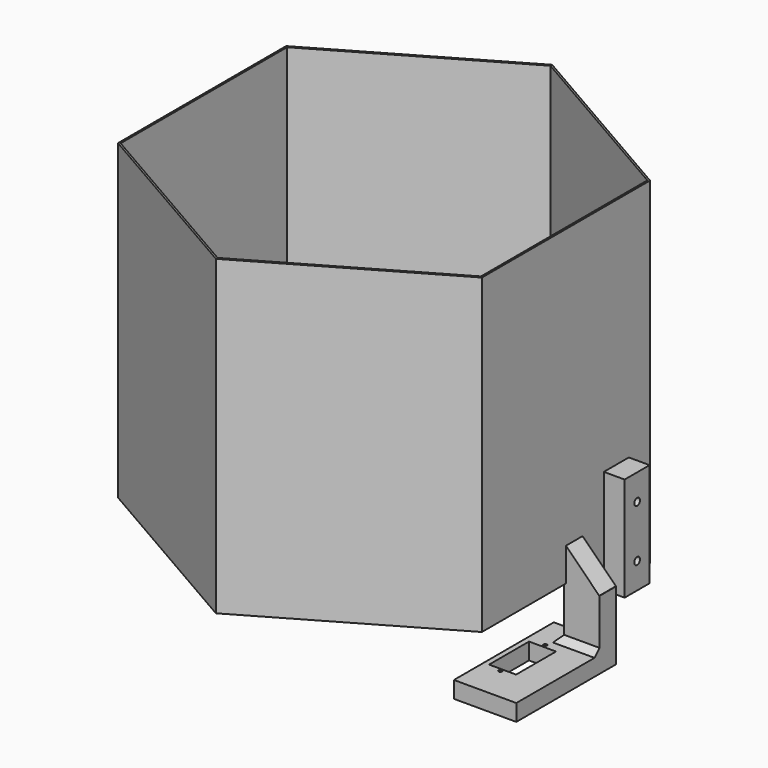
from build123d import *

# Parameters (mm, degrees)
PAD_DEPTH       = 150
SKETCH001_W     = 17
SKETCH001_H     = 10
PAD001_DEPTH    = 25
SKETCH002_W     = 30
SKETCH002_H     = 60
PAD002_DEPTH    = 8
SKETCH003_W     = 13
SKETCH003_H     = 24
POCKET_DEPTH    = 8.001
SKETCH004_R     = 0.8
HOLE_DEPTH      = 25
CHAMFER_SIZE    = 16
CHAMFER001_SIZE = 3
PAD003_DEPTH    = 12
SKETCH006_W     = 15
SKETCH006_H     = 50
PAD004_DEPTH    = 10
SKETCH007_R     = 1.7
HOLE001_DEPTH   = 6
HOLE001_TIPS_R  = 1.7
SKETCH008_W     = 15
SKETCH008_H     = 50
PAD005_DEPTH    = 10
SKETCH009_R     = 1.7
HOLE002_DEPTH   = 6
HOLE002_TIPS_R  = 1.7
SKETCH010_W     = 15
SKETCH010_H     = 50
PAD006_DEPTH    = 10
SKETCH011_R     = 1.7
HOLE003_DEPTH   = 6
HOLE003_TIPS_R  = 1.7


with BuildPart() as part:
    # Sketch → Pad (new body)
    with BuildSketch(Plane.XY):
        Polygon((87.4685657822, -50.5), (87.4685657822, 50.5), (0, 101), (-87.4685657822, 50.5), (-87.4685657822, -50.5), (0, -101), align=None)
        Polygon((86.6025403784, 50), (0, 100), (-86.6025403784, 50), (-86.6025403784, -50), (0, -100), (86.6025403784, -50), align=None, mode=Mode.SUBTRACT)
    extrude(amount=PAD_DEPTH)

    # Sketch001 (on Face13 of Pad) → Pad001 (join)
    with BuildSketch(Plane(origin=(0, 0, 0), x_dir=(1, 0, 0), z_dir=(0, 0, -1))):
        with Locations((95.1025403784, -5)):
            Rectangle(SKETCH001_W, SKETCH001_H)
    extrude(amount=PAD001_DEPTH)

    # Sketch002 (on Face20 of Pad001) → Pad002 (join)
    with BuildSketch(Plane(origin=(0, 0, -25), x_dir=(1, 0, 0), z_dir=(0, 0, -1))):
        with Locations((88.6025403784, 20)):
            Rectangle(SKETCH002_W, SKETCH002_H)
    extrude(amount=PAD002_DEPTH)

    # Sketch003 (on Face21 of Pad002) → Pocket (cut, through all)
    with BuildSketch(Plane.XY.offset(-25)):
        with Locations((82.6025403784, -20)):
            Rectangle(SKETCH003_W, SKETCH003_H)
    extrude(amount=-POCKET_DEPTH, mode=Mode.SUBTRACT)

    # Sketch004 (on Face21 of Pocket) → Hole (cut)
    with BuildSketch(Plane.XY.offset(-25)):
        with Locations((82.6025403784, -6.379604)):
            Circle(SKETCH004_R)
        with Locations((82.6025403784, -33.379604)):
            Circle(SKETCH004_R)
    extrude(amount=-HOLE_DEPTH, mode=Mode.SUBTRACT)

    # Chamfer
    chamfer_edges = [part.edges().sort_by_distance(p)[0] for p in [
        (87.468566, 5, 0),
    ]]
    chamfer(chamfer_edges, length=CHAMFER_SIZE)

    # Chamfer001
    chamfer001_edges = [part.edges().sort_by_distance(p)[0] for p in [
        (95.10254, 0, -25),
        (86.60254, 5, -25),
    ]]
    chamfer(chamfer001_edges, length=CHAMFER001_SIZE)

    # Sketch005 (on Face7 of Chamfer001) → Pad003 (join)
    with BuildSketch(Plane(origin=(0, 0, 0), x_dir=(1, 0, 0), z_dir=(0, 0, -1))):
        Polygon((86.6025403784, -10), (86.6025403784, -50), (0, -100), (-86.6025403784, -50), (-87.4685657822, -50.5), (0, -101), (87.4685657822, -50.5), (87.4685657822, -10), align=None)
    extrude(amount=PAD003_DEPTH)

    # Sketch006 (on Face23 of Pad003) → Pad004 (join)
    with BuildSketch(Plane.YZ.offset(87.4685657822)):
        with Locations((30.25, 13)):
            Rectangle(SKETCH006_W, SKETCH006_H)
    extrude(amount=PAD004_DEPTH)

    # Sketch007 (on Face47 of Pad004) → Hole001 (cut)
    with BuildSketch(Plane.YZ.offset(97.4685657822)):
        with Locations((30.25, 25.5)):
            Circle(SKETCH007_R)
        with Locations((30.25, 0.5)):
            Circle(SKETCH007_R)
    extrude(amount=-HOLE001_DEPTH, mode=Mode.SUBTRACT)

    # Hole001 tips → Hole001 tip 1 section 0
    with BuildSketch(Plane.YZ.offset(91.4685657822), mode=Mode.PRIVATE) as hole001_tip_1_s0:
        with Locations((30.25, 25.5)):
            Circle(HOLE001_TIPS_R)
    loft([hole001_tip_1_s0.sketch, Vertex(90.4471027299, 30.25, 25.5)], mode=Mode.SUBTRACT)

    # Hole001 tips → Hole001 tip 2 section 0
    with BuildSketch(Plane.YZ.offset(91.4685657822), mode=Mode.PRIVATE) as hole001_tip_2_s0:
        with Locations((30.25, 0.5)):
            Circle(HOLE001_TIPS_R)
    loft([hole001_tip_2_s0.sketch, Vertex(90.4471027299, 30.25, 0.5)], mode=Mode.SUBTRACT)

    # Sketch008 (on Face48 of Hole001) → Pad005 (join)
    with BuildSketch(Plane(origin=(43.7342828911, 75.75, 0), x_dir=(-0.8660254038, 0.5, 0), z_dir=(0.5, 0.8660254038, 0))):
        with Locations((0, 13)):
            Rectangle(SKETCH008_W, SKETCH008_H)
    extrude(amount=PAD005_DEPTH)

    # Sketch009 (on Face56 of Pad005) → Hole002 (cut)
    with BuildSketch(Plane(origin=(48.7342828911, 84.4102540378, 0), x_dir=(-0.8660254038, 0.5, 0), z_dir=(0.5, 0.8660254038, 0))):
        with Locations((0, 25.5)):
            Circle(SKETCH009_R)
        with Locations((0, 0.5)):
            Circle(SKETCH009_R)
    extrude(amount=-HOLE002_DEPTH, mode=Mode.SUBTRACT)

    # Hole002 tips → Hole002 tip 1 section 0
    with BuildSketch(Plane(origin=(45.7342828911, 79.2141016151, 0), x_dir=(-0.8660254038, 0.5, 0), z_dir=(0.5, 0.8660254038, 0)), mode=Mode.PRIVATE) as hole002_tip_1_s0:
        with Locations((0, 25.5)):
            Circle(HOLE002_TIPS_R)
    loft([hole002_tip_1_s0.sketch, Vertex(45.2235513649, 78.3294886628, 25.5)], mode=Mode.SUBTRACT)

    # Hole002 tips → Hole002 tip 2 section 0
    with BuildSketch(Plane(origin=(45.7342828911, 79.2141016151, 0), x_dir=(-0.8660254038, 0.5, 0), z_dir=(0.5, 0.8660254038, 0)), mode=Mode.PRIVATE) as hole002_tip_2_s0:
        with Locations((0, 0.5)):
            Circle(HOLE002_TIPS_R)
    loft([hole002_tip_2_s0.sketch, Vertex(45.2235513649, 78.3294886628, 0.5)], mode=Mode.SUBTRACT)

    # Sketch010 (on Face44 of Hole002) → Pad006 (join)
    with BuildSketch(Plane(origin=(-43.7342828911, 75.75, 0), x_dir=(-0.8660254038, -0.5, 0), z_dir=(-0.5, 0.8660254038, 0))):
        with Locations((0, 13)):
            Rectangle(SKETCH010_W, SKETCH010_H)
    extrude(amount=PAD006_DEPTH)

    # Sketch011 (on Face62 of Pad006) → Hole003 (cut)
    with BuildSketch(Plane(origin=(-48.7342828911, 84.4102540378, 0), x_dir=(-0.8660254038, -0.5, 0), z_dir=(-0.5, 0.8660254038, 0))):
        with Locations((0, 25.5)):
            Circle(SKETCH011_R)
        with Locations((0, 0.5)):
            Circle(SKETCH011_R)
    extrude(amount=-HOLE003_DEPTH, mode=Mode.SUBTRACT)

    # Hole003 tips → Hole003 tip 1 section 0
    with BuildSketch(Plane(origin=(-45.7342828911, 79.2141016151, 0), x_dir=(-0.8660254038, -0.5, 0), z_dir=(-0.5, 0.8660254038, 0)), mode=Mode.PRIVATE) as hole003_tip_1_s0:
        with Locations((0, 25.5)):
            Circle(HOLE003_TIPS_R)
    loft([hole003_tip_1_s0.sketch, Vertex(-45.2235513649, 78.3294886628, 25.5)], mode=Mode.SUBTRACT)

    # Hole003 tips → Hole003 tip 2 section 0
    with BuildSketch(Plane(origin=(-45.7342828911, 79.2141016151, 0), x_dir=(-0.8660254038, -0.5, 0), z_dir=(-0.5, 0.8660254038, 0)), mode=Mode.PRIVATE) as hole003_tip_2_s0:
        with Locations((0, 0.5)):
            Circle(HOLE003_TIPS_R)
    loft([hole003_tip_2_s0.sketch, Vertex(-45.2235513649, 78.3294886628, 0.5)], mode=Mode.SUBTRACT)


solid = part.part
